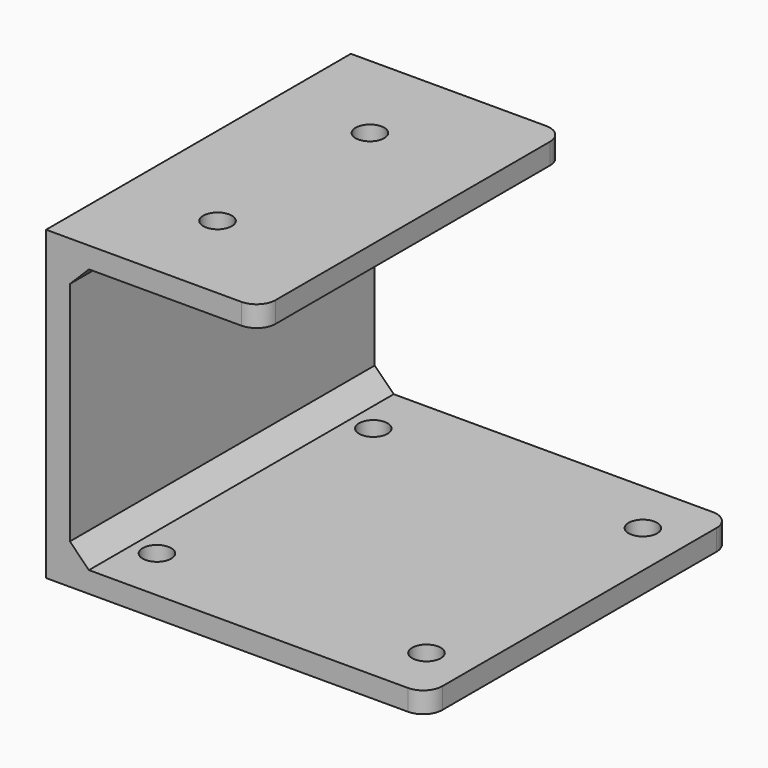
from build123d import *

# Parameters (mm, degrees)
SKETCH003_W     = 40
SKETCH003_H     = 40
PAD002_DEPTH    = 2.2
SKETCH004_W     = 2.5
SKETCH004_H     = 40
PAD003_DEPTH    = 30
SKETCH005_W     = 40
SKETCH005_H     = 2.2
PAD004_DEPTH    = 20
SKETCH006_R     = 1.5
POCKET001_DEPTH = 5
CHAMFER001_SIZE = 2
FILLET001_R     = 2
SKETCH007_R     = 1.5
POCKET002_DEPTH = 5


with BuildPart() as part:
    # Sketch003 → Pad002 (new body)
    with BuildSketch(Plane.XY):
        with Locations((-30, 30)):
            Rectangle(SKETCH003_W, SKETCH003_H)
    extrude(amount=PAD002_DEPTH)

    # Sketch004 (on Face6 of Pad002) → Pad003 (join)
    with BuildSketch(Plane.XY.offset(2.2)):
        with Locations((-48.75, 30)):
            Rectangle(SKETCH004_W, SKETCH004_H)
    extrude(amount=PAD003_DEPTH)

    # Sketch005 (on Face4 of Pad003) → Pad004 (join)
    with BuildSketch(Plane.YZ.offset(-47.5)):
        with Locations((30, 31.1)):
            Rectangle(SKETCH005_W, SKETCH005_H)
    extrude(amount=PAD004_DEPTH)

    # Sketch006 (on Face10 of Pad004) → Pocket001 (cut)
    with BuildSketch(Plane.XY.offset(32.2)):
        with Locations((-40, 40)):
            Circle(SKETCH006_R)
        with Locations((-40, 20)):
            Circle(SKETCH006_R)
    extrude(amount=-POCKET001_DEPTH, mode=Mode.SUBTRACT)

    # Chamfer001
    chamfer001_edges = [part.edges().sort_by_distance(p)[0] for p in [
        (-47.5, 30, 2.2),
        (-47.5, 30, 30),
    ]]
    chamfer(chamfer001_edges, length=CHAMFER001_SIZE)

    # Fillet001
    fillet001_edges = [part.edges().sort_by_distance(p)[0] for p in [
        (-27.5, 10, 31.1),
        (-10, 10, 1.1),
        (-27.5, 50, 31.1),
        (-10, 50, 1.1),
    ]]
    fillet(fillet001_edges, radius=FILLET001_R)

    # Sketch007 (on Face5 of Fillet001) → Pocket002 (cut)
    with BuildSketch(Plane(origin=(0, 0, 0), x_dir=(1, 0, 0), z_dir=(0, 0, -1))):
        with Locations((-43, -15.8)):
            Circle(SKETCH007_R)
        with Locations((-14.7, -15.8)):
            Circle(SKETCH007_R)
        with Locations((-43, -44.2)):
            Circle(SKETCH007_R)
        with Locations((-14.7, -44.2)):
            Circle(SKETCH007_R)
    extrude(amount=-POCKET002_DEPTH, mode=Mode.SUBTRACT)


solid = part.part
